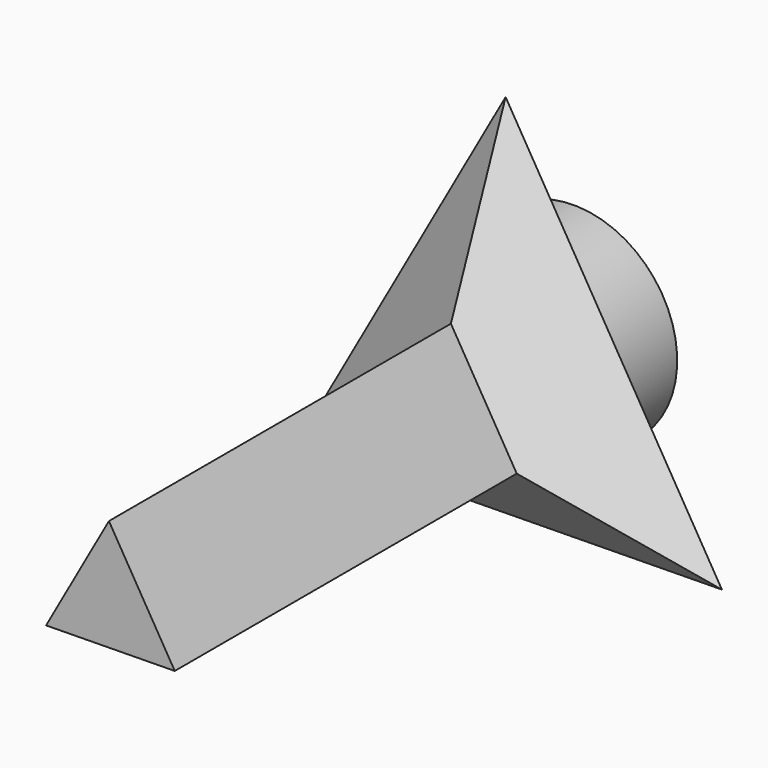
from build123d import *

# Parameters (mm, degrees)
F1_DEPTH = 150
F2_DEPTH = 25
F2_TAPER = -50
F3_R     = 36.2779782861
F4_DEPTH = 30


with BuildPart() as f1:
    # F0 (on Front) → F1 (new body)
    with BuildSketch(Plane.XZ):
        Polygon((-16.5601376103, -17.1414369862), (28.5954256631, -16.5359374457), (5.4932660423, 22.267177701), align=None)
    extrude(amount=F1_DEPTH)

    # F1_face (on face) → F2 (join)
    with BuildSketch(Plane(origin=(5.842851365, 0, -3.8033989103), x_dir=(1, 0, 0), z_dir=(0, 1, 0))):
        Polygon((-22.4029889753, 13.3380380759), (-0.3495853227, -26.0705766113), (22.752574298, 12.7325385354), align=None)
    extrude(amount=F2_DEPTH, taper=F2_TAPER)

    # F3 (on face) → F4 (join)
    with BuildSketch(Plane(origin=(0, 25, 0), x_dir=(-1, 0, 0), z_dir=(0, 1, 0))):
        with Locations((-4.6302080154, 0)):
            Circle(F3_R)
    extrude(amount=F4_DEPTH)


solid = f1.part
